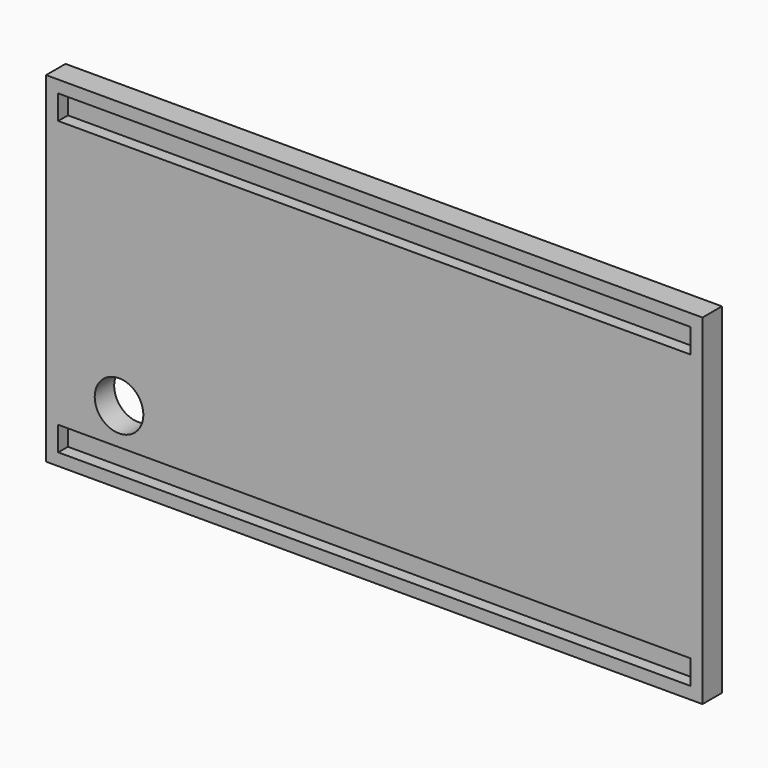
from build123d import *

# Parameters (mm, degrees)
F0_W     = 342.9
F0_H     = 177.8
F1_DEPTH = 12.7
F2_W     = 330.2
F2_H     = 12.7
F3_DEPTH = 6.35
F4_W     = 330.2
F4_H     = 12.7
F5_DEPTH = 6.35
F6_R     = 12.7
F7_DEPTH = 25.4


with BuildPart() as f1:
    # F0 (on Front) → F1 (new body)
    with BuildSketch(Plane.XZ):
        with Locations((171.45, 88.9)):
            Rectangle(F0_W, F0_H)
    extrude(amount=F1_DEPTH)

    # F2 (on face) → F3 (cut)
    with BuildSketch(Plane.XZ.offset(12.7)):
        with Locations((171.45, 12.7)):
            Rectangle(F2_W, F2_H)
    extrude(amount=-F3_DEPTH, mode=Mode.SUBTRACT)

    # F4 (on face) → F5 (cut)
    with BuildSketch(Plane.XZ.offset(12.7)):
        with Locations((171.45, 165.1)):
            Rectangle(F4_W, F4_H)
    extrude(amount=-F5_DEPTH, mode=Mode.SUBTRACT)

    # F6 (on face) → F7 (cut)
    with BuildSketch(Plane(origin=(0, 0, 0), x_dir=(-1, 0, 0), z_dir=(0, 1, 0))):
        with Locations((-38.1, 38.1)):
            Circle(F6_R)
    extrude(amount=-F7_DEPTH, mode=Mode.SUBTRACT)


solid = f1.part
